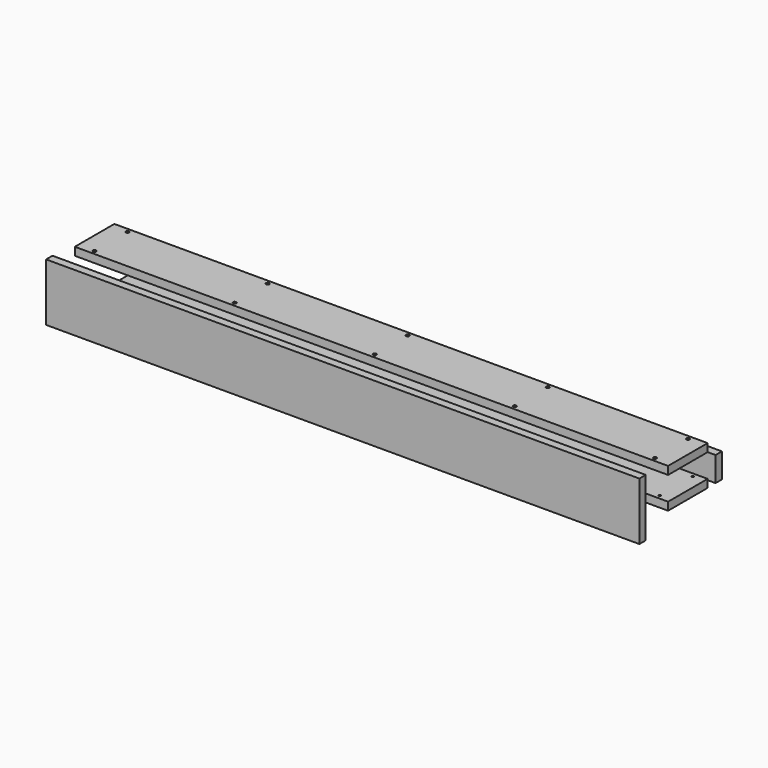
from build123d import *

# Parameters (mm, degrees)
F0_W           = 76.2
F0_H           = 12.2936
F1_DEPTH       = 876.3
F0_W_2         = 12.2936
F0_H_2         = 38.1
F0_H_3         = 88.9
F2_DEPTH       = 914.4
F4_D           = 3.175
F4_DEPTH       = 12.7
F4_CSINK_D     = 5.08
F4_CSINK_ANGLE = 82
F6_D           = 3.175
F6_DEPTH       = 12.7
F6_CSINK_D     = 5.08
F6_CSINK_ANGLE = 82


with BuildPart() as f1:
    # F0 (on Right) → F1 (new body)
    with BuildSketch(Plane.YZ):
        with Locations((10.113374, 9.948571)):
            Rectangle(F0_W, F0_H)
    extrude(amount=-F1_DEPTH)

    # F4
    with Locations(Plane(origin=(0, 0, 3.801771), x_dir=(1, 0, 0), z_dir=(0, 0, -1))):
        with Locations((-850.9, 21.636626), (-850.9, -41.863374), (-642.62, -41.863374), (-642.62, 21.636626), (-434.34, -41.863374), (-434.34, 21.636626), (-226.06, 21.636626), (-17.78, -41.863374), (-17.78, 21.636626), (-226.06, -41.863374)):
            CounterSinkHole(F4_D / 2, F4_CSINK_D / 2, depth=F4_DEPTH, counter_sink_angle=F4_CSINK_ANGLE)


with BuildPart() as f2:
    # F0 (on Right) → F2 (new body)
    with BuildSketch(Plane.YZ):
        with Locations((10.113374, 58.497094)):
            Rectangle(F0_W, F0_H)
        with Locations((69.567252, 23.197387)):
            Rectangle(F0_W_2, F0_H_2)
        with Locations((-77.18702, 25.541386)):
            Rectangle(F0_W_2, F0_H_3)
    extrude(amount=-F2_DEPTH)

    # F6
    with Locations(Plane.XY.offset(64.643894)):
        with Locations((-889, 41.863374), (-889, -21.636626), (-673.1, -21.636626), (-673.1, 41.863374), (-457.2, 41.863374), (-457.2, -21.636626), (-241.3, 41.863374), (-241.3, -21.636626), (-25.4, -21.636626), (-25.4, 41.863374)):
            CounterSinkHole(F6_D / 2, F6_CSINK_D / 2, depth=F6_DEPTH, counter_sink_angle=F6_CSINK_ANGLE)


solid = Compound([f1.part, f2.part])
